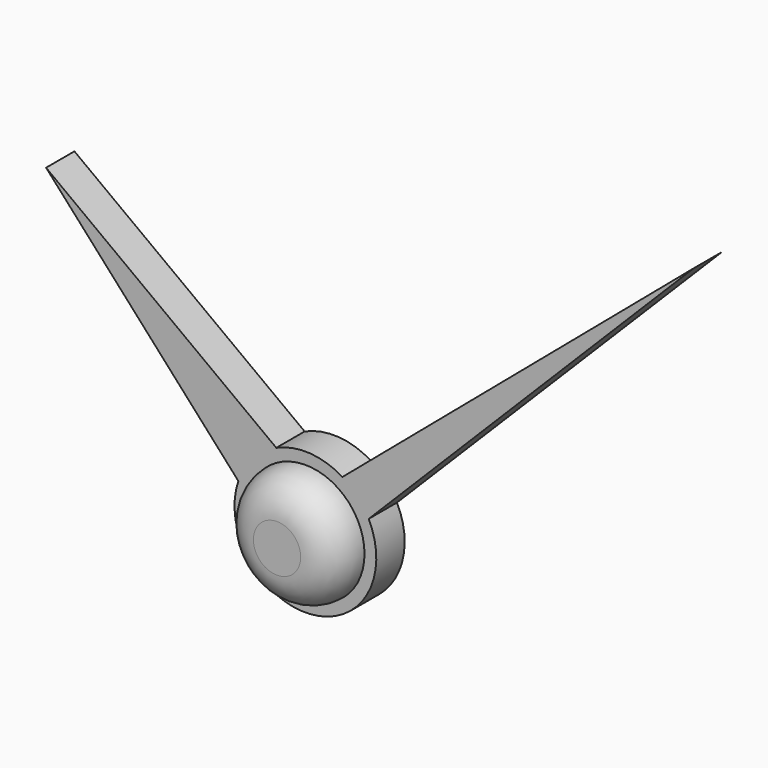
from build123d import *

# Parameters (mm, degrees)
F0_R     = 2.5
F1_DEPTH = 3
F2_R     = 1.5
F4_DEPTH = 1.5


with BuildPart() as f1:
    # F0 (on Front) → F1 (new body)
    with BuildSketch(Plane.XZ):
        Circle(F0_R)
    extrude(amount=F1_DEPTH)

    # F2
    f2_edges = [f1.edges().sort_by_distance(p)[0] for p in [
        (-2.5, -3, 0),
    ]]
    fillet(f2_edges, radius=F2_R)

    # F3 (on Front) → F4 (join)
    with BuildSketch(Plane.XZ):
        with BuildLine():
            Line((-10.973479, 10.002215), (-2.837275, 0.974612))
            ThreePointArc((-2.837275, 0.974612), (0.20759, -2.992809), (2.675548, 1.356998))
            Line((2.675548, 1.356998), (16.424086, 15.161496))
            Line((16.424086, 15.161496), (1.566229, 2.558696))
            ThreePointArc((1.566229, 2.558696), (0.188675, 2.994061), (-1.232635, 2.73507))
            Line((-1.232635, 2.73507), (-10.973479, 10.002215))
        make_face()
    extrude(amount=F4_DEPTH)


solid = f1.part
